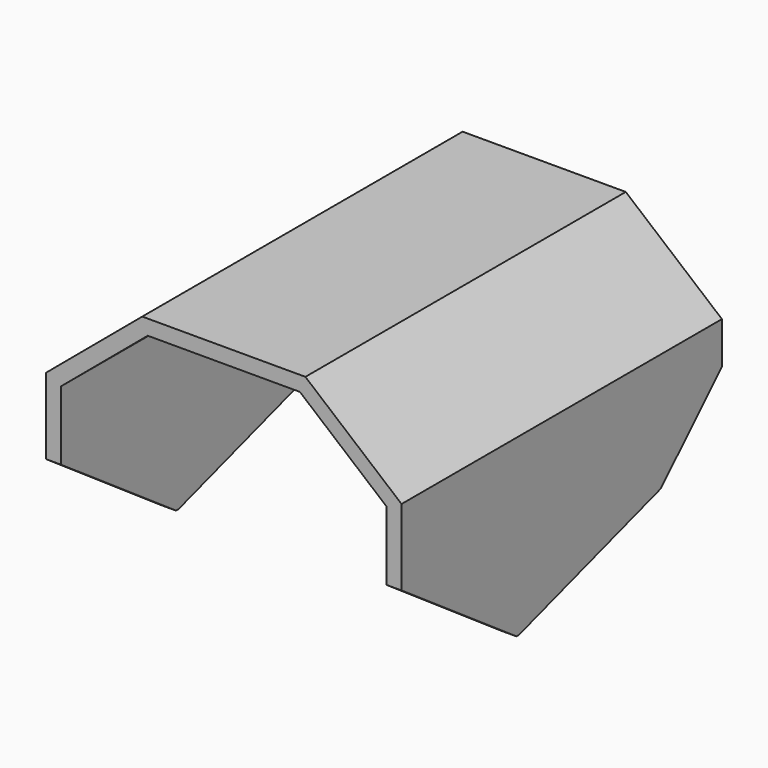
from build123d import *

# Parameters (mm, degrees)
F1_DEPTH = 320
F3_DEPTH = 200


with BuildPart() as f1:
    # F0 (on Front) → F1 (new body)
    with BuildSketch(Plane.XZ):
        Polygon((65, 101.797173), (-65, 101.797173), (-141.604445, 37.518412), (-141.604445, -101.797172), (-129.604445, -101.797172), (-129.604445, 31.92272), (-60.632357, 89.797173), (60.632357, 89.797173), (129.604444, 31.92272), (129.604444, -101.797172), (141.604444, -101.797172), (141.604444, 37.518412), align=None)
    extrude(amount=-F1_DEPTH)

    # F2 (on Right) → F3 (cut, symmetric)
    with BuildSketch(Plane.YZ):
        Polygon((116.125137, -102.384973), (0.936782, -23.123578), (0.936782, 101.797173), (0.936782, 106.294649), (-50.576436, 106.294649), (-50.576436, -137.235448), (364.986345, -137.235448), (364.986345, 106.294649), (320.936782, 106.294649), (320.936782, 5.155268), (259.098048, -56.670247), align=None)
    extrude(amount=F3_DEPTH, both=True, mode=Mode.SUBTRACT)


solid = f1.part
